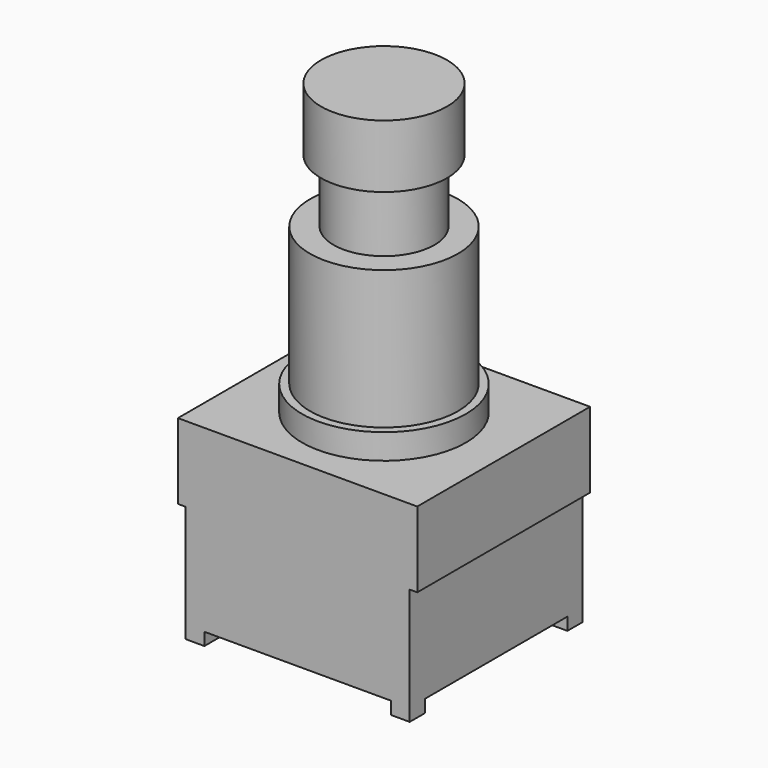
from build123d import *

# Parameters (mm, degrees)
F0_W      = 19
F0_H      = 17.15
F1_DEPTH  = 6
F2_W      = 17.8
F2_H      = 17.15
F3_DEPTH  = 8.25
F4_W      = 1.5
F4_H      = 1.5
F5_DEPTH  = 1
F6_R      = 6.5
F7_DEPTH  = 2
F8_R      = 5.875
F9_DEPTH  = 11
F10_R     = 4
F11_DEPTH = 5
F12_R     = 5
F13_DEPTH = 5


with BuildPart() as f1:
    # F0 (on Top) → F1 (new body)
    with BuildSketch(Plane.XY):
        Rectangle(F0_W, F0_H)
    extrude(amount=F1_DEPTH)

    # F2 (on face) → F3 (join)
    with BuildSketch(Plane(origin=(0, 0, 0), x_dir=(1, 0, 0), z_dir=(0, 0, -1))):
        Rectangle(F2_W, F2_H)
    extrude(amount=F3_DEPTH)

    # F4 (on face) → F5 (join)
    with BuildSketch(Plane(origin=(0, 0, -8.25), x_dir=(1, 0, 0), z_dir=(0, 0, -1))):
        with Locations((-8.15, 7.825)):
            Rectangle(F4_W, F4_H)
        with Locations((8.15, 7.825)):
            Rectangle(F4_W, F4_H)
        with Locations((-8.15, -7.825)):
            Rectangle(F4_W, F4_H)
        with Locations((8.15, -7.825)):
            Rectangle(F4_W, F4_H)
    extrude(amount=F5_DEPTH)


with BuildPart() as f7:
    # F6 (on face) → F7 (new body)
    with BuildSketch(Plane.XY.offset(6)):
        Circle(F6_R)
    extrude(amount=F7_DEPTH)

    # F8 (on face) → F9 (join)
    with BuildSketch(Plane.XY.offset(8)):
        Circle(F8_R)
    extrude(amount=F9_DEPTH)

    # F10 (on face) → F11 (join)
    with BuildSketch(Plane.XY.offset(19)):
        Circle(F10_R)
    extrude(amount=F11_DEPTH)

    # F12 (on face) → F13 (join)
    with BuildSketch(Plane.XY.offset(24)):
        Circle(F12_R)
    extrude(amount=F13_DEPTH)


solid = Compound([f1.part, f7.part])
